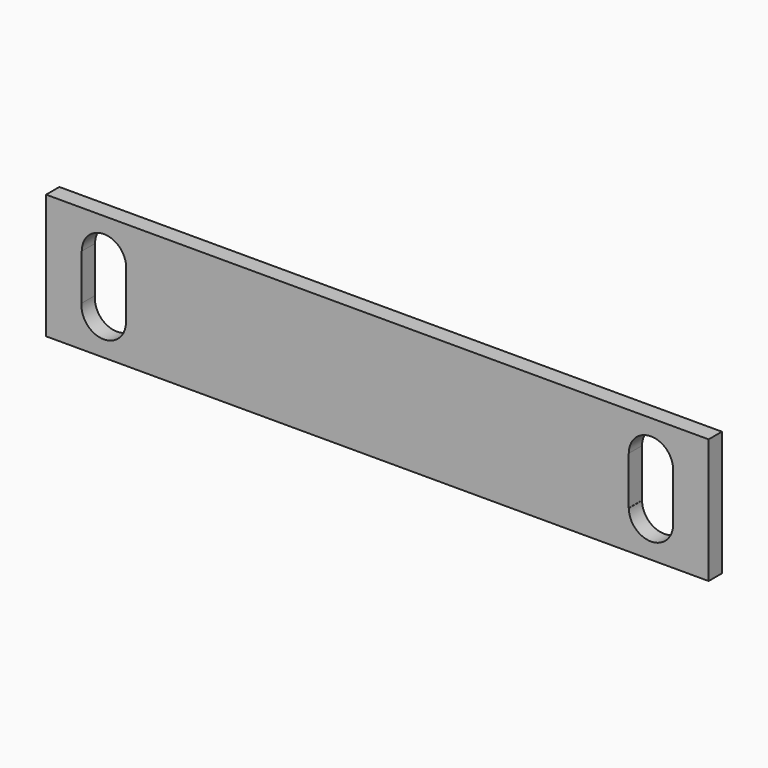
from build123d import *

# Parameters (mm, degrees)
F0_W      = 119.5
F0_H      = 22.5
F1_DEPTH  = 3
F3_D      = 8
F4_D      = 8
F5_W      = 8
F5_H      = 8.7
F6_DEPTH  = 3
F8_D      = 8
F9_D      = 8
F12_DEPTH = 3


with BuildPart() as f1:
    # F0 (on Front) → F1 (new body)
    with BuildSketch(Plane.XZ):
        Rectangle(F0_W, F0_H)
    extrude(amount=F1_DEPTH)

    # F3 (through all)
    with Locations(Plane.XZ.offset(3)):
        with Locations((-49.3088774383, 4.3802403379)):
            Hole(F3_D / 2)

    # F4 (through all)
    with Locations(Plane.XZ.offset(3)):
        with Locations((-49.35, -4.35)):
            Hole(F4_D / 2)

    # F5 (on face) → F6 (cut)
    with BuildSketch(Plane.XZ.offset(3)):
        with Locations((-49.3247925341, 0.0155190326)):
            Rectangle(F5_W, F5_H)
    extrude(amount=-F6_DEPTH, mode=Mode.SUBTRACT)

    # F8 (through all)
    with Locations(Plane.XZ.offset(3)):
        with Locations((49.35, 4.35)):
            Hole(F8_D / 2)

    # F9 (through all)
    with Locations(Plane.XZ.offset(3)):
        with Locations((49.35, -4.35)):
            Hole(F9_D / 2)

    # F11 (on face) → F12 (cut)
    with BuildSketch(Plane.XZ.offset(3)):
        Polygon((53.3259802461, -4.3563189382), (53.3259802461, 4.3436810618), (45.3259802461, 4.3436810618), (45.3259802461, -4.3563189382), (49.35, -4.3563189382), align=None)
    extrude(amount=-F12_DEPTH, mode=Mode.SUBTRACT)


solid = f1.part
